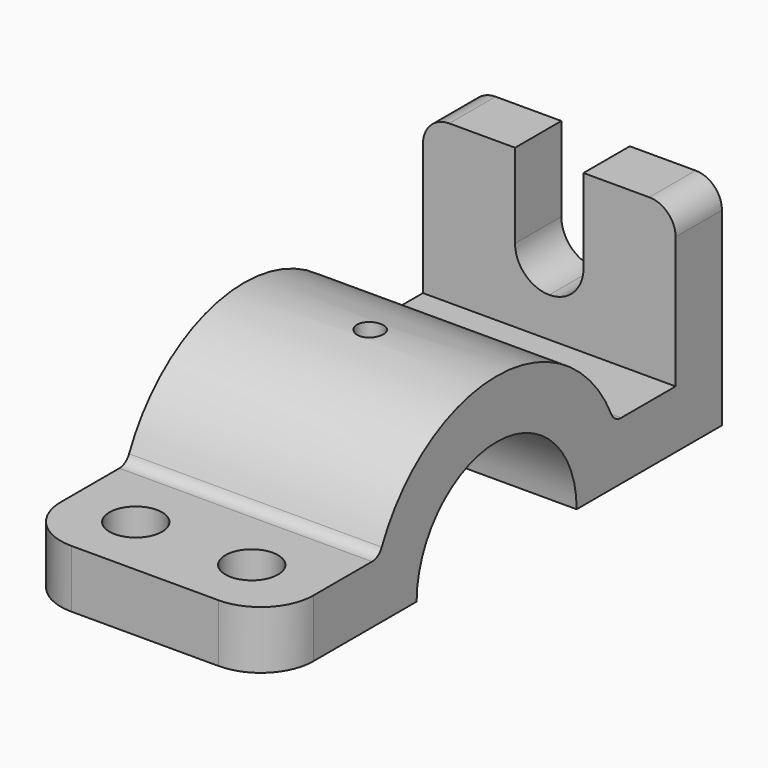
from build123d import *

# Parameters (mm, degrees)
F1_DEPTH  = 24
F2_R      = 5
F3_R      = 5
F5_DEPTH  = 25.4
F7_R      = 2.54
F6_R      = 2.5
F8_DEPTH  = 25.4
F10_R     = 10
F9_R      = 5
F11_DEPTH = 25.4


with BuildPart() as f1:
    # F0 (on Right) → F1 (new body, symmetric)
    with BuildSketch(Plane.YZ):
        with BuildLine():
            ThreePointArc((-30, 0), (-29.4730143031, 5.5983415304), (-27.9105714739, 11))
            Line((-27.9105714739, 11), (-53.5, 11))
            Line((-53.5, 11), (-53.5, 0))
            Line((-53.5, 0), (-30, 0))
        make_face()
        with BuildLine():
            Line((-15.4919333848, 11), (-27.9105714739, 11))
            ThreePointArc((-27.9105714739, 11), (-29.4730143031, 5.5983415304), (-30, 0))
            Line((-30, 0), (-19, 0))
            ThreePointArc((-19, 0), (-18.1017503893, 5.7729223833), (-15.4919333848, 11))
        make_face()
        with BuildLine():
            Line((15.4919333848, 11), (27.9105714739, 11))
            ThreePointArc((27.9105714739, 11), (0, 30), (-27.9105714739, 11))
            Line((-27.9105714739, 11), (-15.4919333848, 11))
            ThreePointArc((-15.4919333848, 11), (0, 19), (15.4919333848, 11))
        make_face()
        with BuildLine():
            Line((19, 0), (30, 0))
            ThreePointArc((30, 0), (29.4730143031, 5.5983415304), (27.9105714739, 11))
            Line((27.9105714739, 11), (15.4919333848, 11))
            ThreePointArc((15.4919333848, 11), (18.1017503893, 5.7729223833), (19, 0))
        make_face()
        with BuildLine():
            Line((30, 0), (42.5, 0))
            Line((42.5, 0), (42.5, 11))
            Line((42.5, 11), (27.9105714739, 11))
            ThreePointArc((27.9105714739, 11), (29.4730143031, 5.5983415304), (30, 0))
        make_face()
        Polygon((42.5, 0), (53.5, 0), (53.5, 41), (42.5, 41), (42.5, 11), align=None)
    extrude(amount=F1_DEPTH, both=True)

    # F2
    f2_edges = [f1.edges().sort_by_distance(p)[0] for p in [
        (24, 48, 41),
    ]]
    fillet(f2_edges, radius=F2_R)

    # F3
    f3_edges = [f1.edges().sort_by_distance(p)[0] for p in [
        (-24, 48, 41),
    ]]
    fillet(f3_edges, radius=F3_R)

    # F4 (on face) → F5 (cut)
    with BuildSketch(Plane(origin=(0, 53.5, 0), x_dir=(-1, 0, 0), z_dir=(0, 1, 0))):
        with BuildLine():
            ThreePointArc((6.5, 25), (0, 31.5), (-6.5, 25))
            ThreePointArc((-6.5, 25), (-4.5961940777, 20.4038059223), (0, 18.5))
            ThreePointArc((0, 18.5), (4.5961940777, 20.4038059223), (6.5, 25))
        make_face()
        with BuildLine():
            Line((6.5, 41), (-6.5, 41))
            Line((-6.5, 41), (-6.5, 25))
            ThreePointArc((-6.5, 25), (0, 31.5), (6.5, 25))
            Line((6.5, 25), (6.5, 41))
        make_face()
    extrude(amount=-F5_DEPTH, mode=Mode.SUBTRACT)

    # F7
    f7_edges = [f1.edges().sort_by_distance(p)[0] for p in [
        (0, 27.910571, 11),
        (0, -27.910571, 11),
    ]]
    fillet(f7_edges, radius=F7_R)

    # F6 (on face) → F8 (cut)
    with BuildSketch(Plane.XY.offset(11)):
        Circle(F6_R)
    extrude(amount=F8_DEPTH, mode=Mode.SUBTRACT)

    # F10
    f10_edges = [f1.edges().sort_by_distance(p)[0] for p in [
        (-24, -53.5, 5.5),
        (24, -53.5, 5.5),
    ]]
    fillet(f10_edges, radius=F10_R)

    # F9 (on face) → F11 (cut)
    with BuildSketch(Plane.XY.offset(11)):
        with Locations((-11.3169830292, -41.5445936071)):
            Circle(F9_R)
        with Locations((10.7156652957, -41.5445936071)):
            Circle(F9_R)
    extrude(amount=-F11_DEPTH, mode=Mode.SUBTRACT)


solid = f1.part
